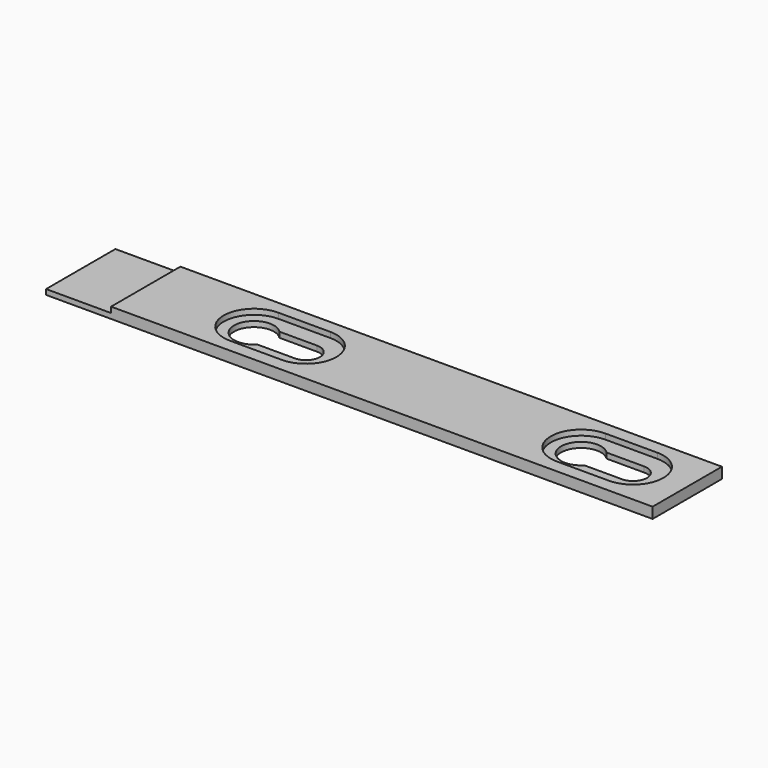
from build123d import *

# Parameters (mm, degrees)
SKETCH_W        = 140
SKETCH_H        = 20
PAD_DEPTH       = 2.5
SKETCH001_W     = 15
SKETCH001_H     = 20
POCKET_DEPTH    = 1.3
POCKET001_DEPTH = 1.25
SKETCH003_R     = 4.6
POCKET002_DEPTH = 1.251


with BuildPart() as part:
    # Sketch → Pad (new body)
    with BuildSketch(Plane.XY):
        with Locations((72, 12)):
            Rectangle(SKETCH_W, SKETCH_H)
    extrude(amount=PAD_DEPTH)

    # Sketch001 → Pocket (cut)
    with BuildSketch(Plane.XY.offset(2.5)):
        with Locations((9.5, 12)):
            Rectangle(SKETCH001_W, SKETCH001_H)
    extrude(amount=-POCKET_DEPTH, mode=Mode.SUBTRACT)

    # Sketch002 → Pocket001 (cut)
    with BuildSketch(Plane.XY.offset(2.5)):
        with BuildLine():
            ThreePointArc((42, 19), (35, 12), (42, 5))
            Line((42, 5), (54, 5))
            ThreePointArc((54, 5), (61, 12), (54, 19))
            Line((42, 19), (54, 19))
        make_face()
        with BuildLine():
            ThreePointArc((117.5, 19), (110.5, 12), (117.5, 5))
            Line((117.5, 5), (129.5, 5))
            ThreePointArc((129.5, 5), (136.5, 12), (129.5, 19))
            Line((117.5, 19), (129.5, 19))
        make_face()
    extrude(amount=-POCKET001_DEPTH, mode=Mode.SUBTRACT)

    # Sketch003 → Pocket002 (cut, through all)
    with BuildSketch(Plane.XY.offset(1.25)):
        with Locations((42, 12)):
            Circle(SKETCH003_R)
        with Locations((117.5, 12)):
            Circle(SKETCH003_R)
        with BuildLine():
            ThreePointArc((54, 8.8), (57.2, 12), (54, 15.2))
            Line((54, 15.2), (44, 15.2))
            ThreePointArc((44, 15.2), (40.8, 12), (44, 8.8))
            Line((54, 8.8), (44, 8.8))
        make_face()
        with BuildLine():
            ThreePointArc((129.5, 8.8), (132.7, 12), (129.5, 15.2))
            Line((129.5, 15.2), (119.5, 15.2))
            ThreePointArc((119.5, 15.2), (116.3, 12), (119.5, 8.8))
            Line((129.5, 8.8), (119.5, 8.8))
        make_face()
    extrude(amount=-POCKET002_DEPTH, mode=Mode.SUBTRACT)


solid = part.part
